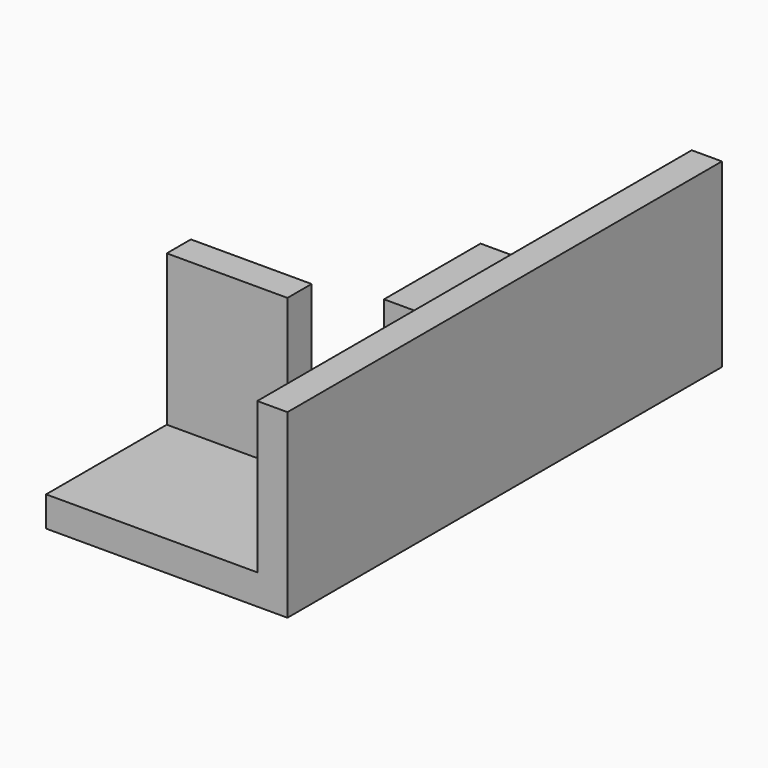
from build123d import *

# Parameters (mm, degrees)
F0_W     = 40
F0_H     = 30
F1_DEPTH = 5
F2_W     = 20
F2_H     = 5
F3_DEPTH = 25
F4_W     = 5
F4_H     = 30
F5_DEPTH = 25
F6_W     = 5
F6_H     = 30
F7_DEPTH = 60
F8_W     = 35
F8_H     = 20
F9_DEPTH = 5


with BuildPart() as f1:
    # F0 (on Top) → F1 (new body)
    with BuildSketch(Plane.XY):
        with Locations((20, -15)):
            Rectangle(F0_W, F0_H)
    extrude(amount=F1_DEPTH)

    # F2 (on face) → F3 (join)
    with BuildSketch(Plane.XY.offset(5)):
        with Locations((10, -2.5)):
            Rectangle(F2_W, F2_H)
    extrude(amount=F3_DEPTH)

    # F4 (on face) → F5 (join)
    with BuildSketch(Plane.XY.offset(5)):
        with Locations((37.5, -15)):
            Rectangle(F4_W, F4_H)
    extrude(amount=F5_DEPTH)

    # F6 (on face) → F7 (join)
    with BuildSketch(Plane(origin=(0, 0, 0), x_dir=(-1, 0, 0), z_dir=(0, 1, 0))):
        with Locations((-37.5, 15)):
            Rectangle(F6_W, F6_H)
    extrude(amount=F7_DEPTH)

    # F8 (on face) → F9 (join)
    with BuildSketch(Plane(origin=(0, 0, 0), x_dir=(1, 0, 0), z_dir=(0, 0, -1))):
        with Locations((17.5, -50)):
            Rectangle(F8_W, F8_H)
    extrude(amount=-F9_DEPTH)


solid = f1.part
